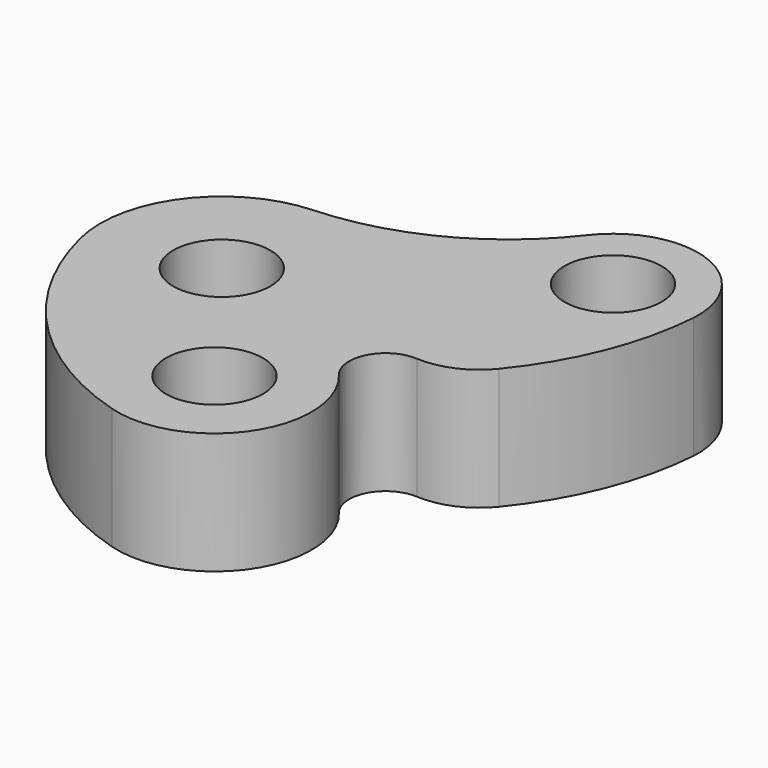
from build123d import *

# Parameters (mm, degrees)
F0_R     = 10
F1_DEPTH = 25


with BuildPart() as f1:
    # F0 (on Top) → F1 (new body)
    with BuildSketch(Plane.XY):
        with BuildLine():
            ThreePointArc((-10.5878, -49.155795), (11.831524, -41.050494), (10.566127, -17.244596))
            ThreePointArc((10.566127, -17.244596), (9.652404, -9.071889), (16.782416, -4.974213))
            ThreePointArc((16.782416, -4.974213), (23.692785, -3.734072), (29.28189, 0.514817))
            ThreePointArc((29.28189, 0.514817), (38.506241, 16.164452), (42.624255, 33.857436))
            ThreePointArc((42.624255, 33.857436), (31.349021, 51.369659), (11.30918, 45.693954))
            ThreePointArc((11.30918, 45.693954), (-6.314116, 30.95087), (-28.499794, 24.973009))
            ThreePointArc((-28.499794, 24.973009), (-47.356712, 14.975562), (-51.623254, -5.93685))
            ThreePointArc((-51.623254, -5.93685), (-36.850918, -33.001447), (-10.5878, -49.155795))
        make_face()
        with Locations((-27.338407, 0)):
            Circle(F0_R, mode=Mode.SUBTRACT)
        with Locations((-4.838407, -30)):
            Circle(F0_R, mode=Mode.SUBTRACT)
        with Locations((25.161593, 35)):
            Circle(F0_R, mode=Mode.SUBTRACT)
    extrude(amount=F1_DEPTH)


solid = f1.part
